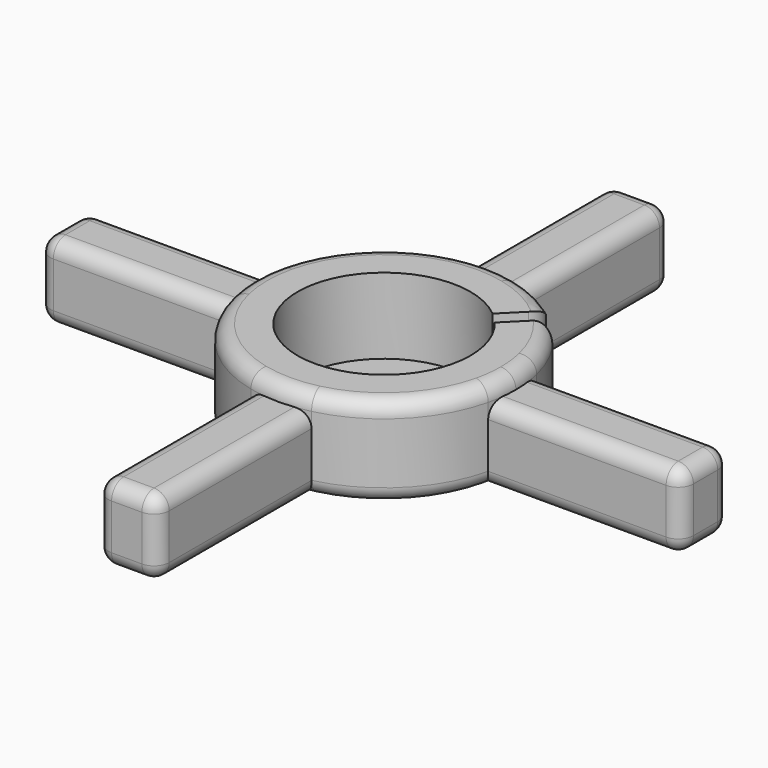
from build123d import *

# Parameters (mm, degrees)
F1_DEPTH = 5
F2_DEPTH = 6
F3_DEPTH = 6
F4_R     = 1
F4_2_R   = 1
F4_3_R   = 1
F4_4_R   = 1
F4_5_R   = 1
F5_DEPTH = 1


with BuildPart() as f1:
    # F0 (on Top) → F1 (new body)
    with BuildSketch(Plane.XY):
        with BuildLine():
            Line((-7.2, 2), (-8.4669947443, 2))
            ThreePointArc((-8.4669947443, 2), (-8.7, 0), (-8.4669947443, -2))
            Line((-8.4669947443, -2), (-7.2, -2))
            Line((-7.2, -2), (-7.2, 2))
        make_face()
        with BuildLine():
            ThreePointArc((-8.4669947443, -2), (-8.7, 0), (-8.4669947443, 2))
            Line((-8.4669947443, 2), (-21.2, 2))
            Line((-21.2, 2), (-21.2, -2))
            Line((-21.2, -2), (-8.4669947443, -2))
        make_face()
    extrude(amount=F1_DEPTH)

    # F0 (on Top) → F3 (cut, through all)
    with BuildSketch(Plane.XY):
        with BuildLine():
            Line((13.7885822331, 14.4956890143), (5.7881076225, 6.4952144037))
            ThreePointArc((5.7881076225, 6.4952144037), (6.1518289963, 6.1518289963), (6.4952144037, 5.7881076225))
            Line((6.4952144037, 5.7881076225), (14.4956890143, 13.7885822331))
            Line((14.4956890143, 13.7885822331), (13.7885822331, 14.4956890143))
        make_face()
        with BuildLine():
            Line((5.7881076225, 6.4952144037), (3.6614185894, 4.3685253706))
            ThreePointArc((3.6614185894, 4.3685253706), (4.0305086528, 4.0305086528), (4.3685253706, 3.6614185894))
            Line((4.3685253706, 3.6614185894), (6.4952144037, 5.7881076225))
            ThreePointArc((6.4952144037, 5.7881076225), (6.1518289963, 6.1518289963), (5.7881076225, 6.4952144037))
        make_face()
        with BuildLine():
            ThreePointArc((4.3685253706, 3.6614185894), (4.0305086528, 4.0305086528), (3.6614185894, 4.3685253706))
            Line((3.6614185894, 4.3685253706), (-0.3535533906, 0.3535533906))
            Line((-0.3535533906, 0.3535533906), (0.3535533906, -0.3535533906))
            Line((0.3535533906, -0.3535533906), (4.3685253706, 3.6614185894))
        make_face()
        with BuildLine():
            Line((-0.3535533906, 0.3535533906), (-4.3685253706, -3.6614185894))
            ThreePointArc((-4.3685253706, -3.6614185894), (-4.0305086528, -4.0305086528), (-3.6614185894, -4.3685253706))
            Line((-3.6614185894, -4.3685253706), (0.3535533906, -0.3535533906))
            Line((0.3535533906, -0.3535533906), (-0.3535533906, 0.3535533906))
        make_face()
    extrude(amount=F3_DEPTH, mode=Mode.SUBTRACT)

    # F4#4
    f4_4_edges = [f1.edges().sort_by_distance(p)[0] for p in [
        (-21.2, 2, 2.5),
        (-21.2, -2, 2.5),
        (-21.2, 0, 0),
        (-21.2, 0, 5),
        (-7.2, 0, 5),
        (-14.2, 2, 5),
        (-14.2, -2, 5),
        (-7.2, -2, 2.5),
        (-14.2, -2, 0),
        (-7.2, 2, 2.5),
        (-14.2, 2, 0),
    ]]
    fillet(f4_4_edges, radius=F4_4_R)


with BuildPart() as f1b:
    # F0 (on Top) → F1, piece 2 (new body)
    with BuildSketch(Plane.XY):
        with BuildLine():
            Line((2, 7.2), (2, 8.4669947443))
            ThreePointArc((2, 8.4669947443), (0, 8.7), (-2, 8.4669947443))
            Line((-2, 8.4669947443), (-2, 7.2))
            Line((-2, 7.2), (2, 7.2))
        make_face()
        with BuildLine():
            ThreePointArc((-2, 8.4669947443), (0, 8.7), (2, 8.4669947443))
            Line((2, 8.4669947443), (2, 21.2))
            Line((2, 21.2), (-2, 21.2))
            Line((-2, 21.2), (-2, 8.4669947443))
        make_face()
    extrude(amount=F1_DEPTH)

    # F4#3
    f4_3_edges = [f1b.edges().sort_by_distance(p)[0] for p in [
        (-2, 21.2, 2.5),
        (-2, 7.2, 2.5),
        (-2, 14.2, 0),
        (-2, 14.2, 5),
        (0, 7.2, 5),
        (2, 14.2, 5),
        (0, 21.2, 5),
        (2, 21.2, 2.5),
        (0, 21.2, 0),
        (2, 14.2, 0),
    ]]
    fillet(f4_3_edges, radius=F4_3_R)


with BuildPart() as f1c:
    # F0 (on Top) → F1, piece 3 (new body)
    with BuildSketch(Plane.XY):
        with BuildLine():
            Line((2, -21.2), (2, -8.4669947443))
            ThreePointArc((2, -8.4669947443), (0, -8.7), (-2, -8.4669947443))
            Line((-2, -8.4669947443), (-2, -21.2))
            Line((-2, -21.2), (2, -21.2))
        make_face()
        with BuildLine():
            ThreePointArc((-2, -8.4669947443), (0, -8.7), (2, -8.4669947443))
            Line((2, -8.4669947443), (2, -7.2))
            Line((2, -7.2), (-2, -7.2))
            Line((-2, -7.2), (-2, -8.4669947443))
        make_face()
    extrude(amount=F1_DEPTH)

    # F4#2
    f4_2_edges = [f1c.edges().sort_by_distance(p)[0] for p in [
        (2, -21.2, 2.5),
        (2, -7.2, 2.5),
        (2, -14.2, 0),
        (2, -14.2, 5),
        (-2, -7.2, 2.5),
        (-2, -21.2, 2.5),
        (-2, -14.2, 0),
        (-2, -14.2, 5),
        (0, -21.2, 0),
        (0, -21.2, 5),
    ]]
    fillet(f4_2_edges, radius=F4_2_R)


with BuildPart() as f1d:
    # F0 (on Top) → F1, piece 4 (new body)
    with BuildSketch(Plane.XY):
        with BuildLine():
            Line((21.2, 2), (8.4669947443, 2))
            ThreePointArc((8.4669947443, 2), (8.6415523569, 1.0067635583), (8.7, 0))
            ThreePointArc((8.7, 0), (8.6415523569, -1.0067635583), (8.4669947443, -2))
            Line((8.4669947443, -2), (21.2, -2))
            Line((21.2, -2), (21.2, 2))
        make_face()
        with BuildLine():
            ThreePointArc((8.7, 0), (8.6415523569, 1.0067635583), (8.4669947443, 2))
            Line((8.4669947443, 2), (7.2, 2))
            Line((7.2, 2), (7.2, -2))
            Line((7.2, -2), (8.4669947443, -2))
            ThreePointArc((8.4669947443, -2), (8.6415523569, -1.0067635583), (8.7, 0))
        make_face()
    extrude(amount=F1_DEPTH)

    # F4#5
    f4_5_edges = [f1d.edges().sort_by_distance(p)[0] for p in [
        (7.2, -2, 2.5),
        (21.2, -2, 2.5),
        (14.2, -2, 0),
        (14.2, -2, 5),
        (21.2, 2, 2.5),
        (21.2, 0, 0),
        (21.2, 0, 5),
        (7.2, 2, 2.5),
        (14.2, 2, 0),
        (14.2, 2, 5),
    ]]
    fillet(f4_5_edges, radius=F4_5_R)


with BuildPart() as f2:
    # F0 (on Top) → F2 (new body)
    with BuildSketch(Plane.XY):
        with BuildLine():
            ThreePointArc((-3.6614185894, -4.3685253706), (-4.0305086528, -4.0305086528), (-4.3685253706, -3.6614185894))
            ThreePointArc((-4.3685253706, -3.6614185894), (-4.0305086528, 4.0305086528), (3.6614185894, 4.3685253706))
            Line((3.6614185894, 4.3685253706), (5.7881076225, 6.4952144037))
            ThreePointArc((5.7881076225, 6.4952144037), (4.0169185345, 7.7171474968), (2, 8.4669947443))
            Line((2, 8.4669947443), (2, 7.2))
            Line((2, 7.2), (-2, 7.2))
            Line((-2, 7.2), (-2, 8.4669947443))
            ThreePointArc((-2, 8.4669947443), (-6.1518289963, 6.1518289963), (-8.4669947443, 2))
            Line((-8.4669947443, 2), (-7.2, 2))
            Line((-7.2, 2), (-7.2, -2))
            Line((-7.2, -2), (-8.4669947443, -2))
            ThreePointArc((-8.4669947443, -2), (-6.1518289963, -6.1518289963), (-2, -8.4669947443))
            Line((-2, -8.4669947443), (-2, -7.2))
            Line((-2, -7.2), (2, -7.2))
            Line((2, -7.2), (2, -8.4669947443))
            ThreePointArc((2, -8.4669947443), (6.1518289963, -6.1518289963), (8.4669947443, -2))
            Line((8.4669947443, -2), (7.2, -2))
            Line((7.2, -2), (7.2, 2))
            Line((7.2, 2), (8.4669947443, 2))
            ThreePointArc((8.4669947443, 2), (7.7171474968, 4.0169185345), (6.4952144037, 5.7881076225))
            Line((6.4952144037, 5.7881076225), (4.3685253706, 3.6614185894))
            ThreePointArc((4.3685253706, 3.6614185894), (5.3567991661, 1.9479996648), (5.7, 0))
            ThreePointArc((5.7, 0), (2.4103852431, -5.1652727885), (-3.6614185894, -4.3685253706))
        make_face()
        with BuildLine():
            ThreePointArc((-2, -8.4669947443), (0, -8.7), (2, -8.4669947443))
            Line((2, -8.4669947443), (2, -7.2))
            Line((2, -7.2), (-2, -7.2))
            Line((-2, -7.2), (-2, -8.4669947443))
        make_face()
        with BuildLine():
            ThreePointArc((8.7, 0), (8.6415523569, 1.0067635583), (8.4669947443, 2))
            Line((8.4669947443, 2), (7.2, 2))
            Line((7.2, 2), (7.2, -2))
            Line((7.2, -2), (8.4669947443, -2))
            ThreePointArc((8.4669947443, -2), (8.6415523569, -1.0067635583), (8.7, 0))
        make_face()
        with BuildLine():
            Line((2, 7.2), (2, 8.4669947443))
            ThreePointArc((2, 8.4669947443), (0, 8.7), (-2, 8.4669947443))
            Line((-2, 8.4669947443), (-2, 7.2))
            Line((-2, 7.2), (2, 7.2))
        make_face()
        with BuildLine():
            Line((-7.2, 2), (-8.4669947443, 2))
            ThreePointArc((-8.4669947443, 2), (-8.7, 0), (-8.4669947443, -2))
            Line((-8.4669947443, -2), (-7.2, -2))
            Line((-7.2, -2), (-7.2, 2))
        make_face()
    extrude(amount=F2_DEPTH)

    # F4
    f4_edges = [f2.edges().sort_by_distance(p)[0] for p in [
        (5.788108, 6.495214, 3),
        (6.495214, 5.788108, 3),
        (-6.151829, -6.151829, 0),
        (-6.151829, -6.151829, 6),
    ]]
    fillet(f4_edges, radius=F4_R)

    # F0 (on Top) → F5 (join)
    with BuildSketch(Plane.XY):
        with BuildLine():
            ThreePointArc((3.6614185894, 4.3685253706), (-4.0305086528, 4.0305086528), (-4.3685253706, -3.6614185894))
            Line((-4.3685253706, -3.6614185894), (-0.3535533906, 0.3535533906))
            Line((-0.3535533906, 0.3535533906), (3.6614185894, 4.3685253706))
        make_face()
        with BuildLine():
            Line((0.3535533906, -0.3535533906), (-3.6614185894, -4.3685253706))
            ThreePointArc((-3.6614185894, -4.3685253706), (2.4103852431, -5.1652727885), (5.7, 0))
            ThreePointArc((5.7, 0), (5.3567991661, 1.9479996648), (4.3685253706, 3.6614185894))
            Line((4.3685253706, 3.6614185894), (0.3535533906, -0.3535533906))
        make_face()
    extrude(amount=F5_DEPTH)


solid = Compound([f1.part, f1b.part, f1c.part, f1d.part, f2.part])
